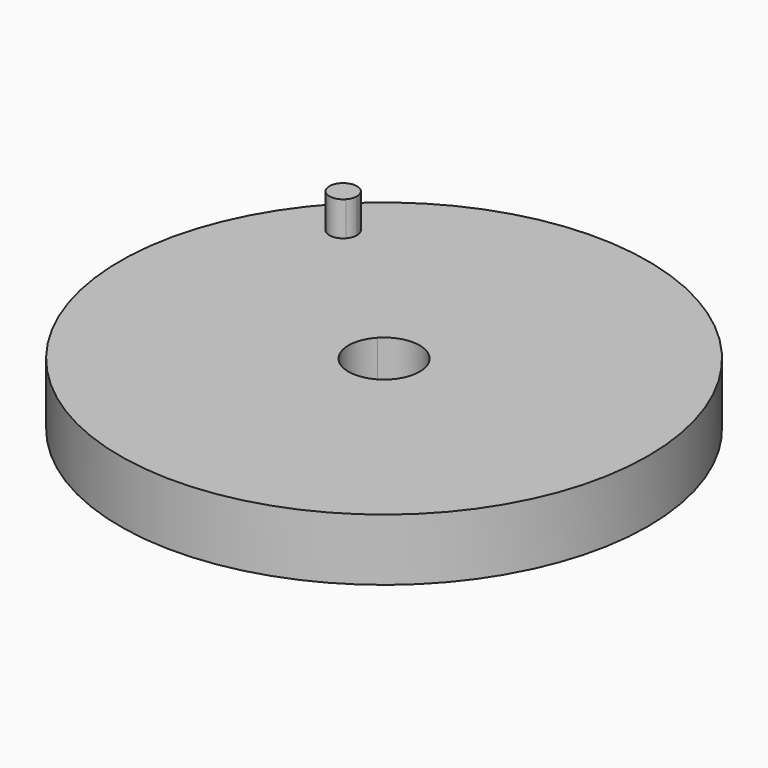
from build123d import *

# Parameters (mm, degrees)
F0_R     = 38.99223
F1_DEPTH = 9.144
F2_DEPTH = 14.224


with BuildPart() as f1:
    # F0 (on Top) → F1 (new body)
    with BuildSketch(Plane.XY):
        with Locations((18.216823, -16.966983)):
            Circle(F0_R)
        with BuildLine():
            ThreePointArc((-3.451107, 5.106916), (-3.592274, 4.362754), (-3.996163, 3.721989))
            ThreePointArc((-3.996163, 3.721989), (-7.373939, 5.851077), (-3.451107, 5.106916))
        make_face(mode=Mode.SUBTRACT)
        with BuildLine():
            ThreePointArc((14.365916, -13.380283), (20.144063, -12.07008), (23.479323, -16.966983))
            ThreePointArc((23.479323, -16.966983), (16.289584, -21.863885), (14.365916, -13.380283))
        make_face(mode=Mode.SUBTRACT)
        with BuildLine():
            ThreePointArc((-3.451107, 5.106916), (-7.373939, 5.851077), (-3.996163, 3.721989))
            ThreePointArc((-3.996163, 3.721989), (-3.592274, 4.362754), (-3.451107, 5.106916))
        make_face()
    extrude(amount=F1_DEPTH)

    # F0 (on Top) → F2 (join)
    with BuildSketch(Plane.XY):
        with BuildLine():
            ThreePointArc((-3.451107, 5.106916), (-7.373939, 5.851077), (-3.996163, 3.721989))
            ThreePointArc((-3.996163, 3.721989), (-3.592274, 4.362754), (-3.451107, 5.106916))
        make_face()
    extrude(amount=F2_DEPTH)


solid = f1.part
